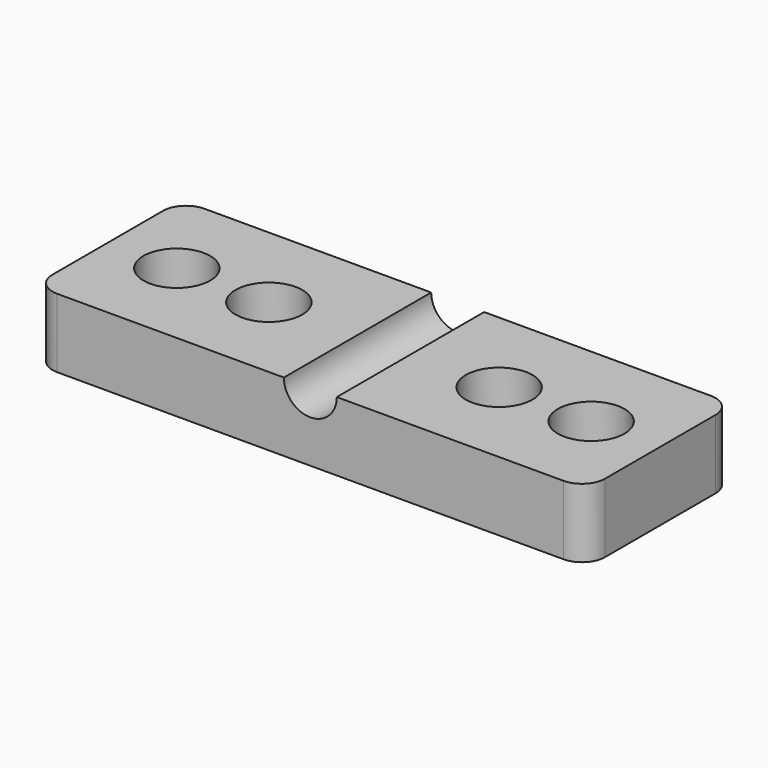
from build123d import *

# Parameters (mm, degrees)
F0_W     = 6
F0_H     = 8
F0_W_2   = 12
F1_DEPTH = 3
F2_D     = 2.9
F4_D     = 2.3
F5_R     = 1


with BuildPart() as f1:
    # F0 (on Top) → F1 (new body)
    with BuildSketch(Plane.XY):
        Rectangle(F0_W, F0_H)
        with Locations((9, 0)):
            Rectangle(F0_W_2, F0_H)
        with Locations((18, 0)):
            Rectangle(F0_W, F0_H)
    extrude(amount=-F1_DEPTH)

    # F2 (through all)
    with Locations(Plane.XY):
        with Locations((0, 0), (4, 0), (14, 0), (18, 0)):
            Hole(F2_D / 2)

    # F4 (through all)
    with Locations(Plane.XZ.offset(4)):
        with Locations((9, 0)):
            Hole(F4_D / 2)

    # F5
    f5_edges = [f1.edges().sort_by_distance(p)[0] for p in [
        (-3, -4, -1.5),
        (21, -4, -1.5),
        (21, 4, -1.5),
        (-3, 4, -1.5),
    ]]
    fillet(f5_edges, radius=F5_R)


solid = f1.part
